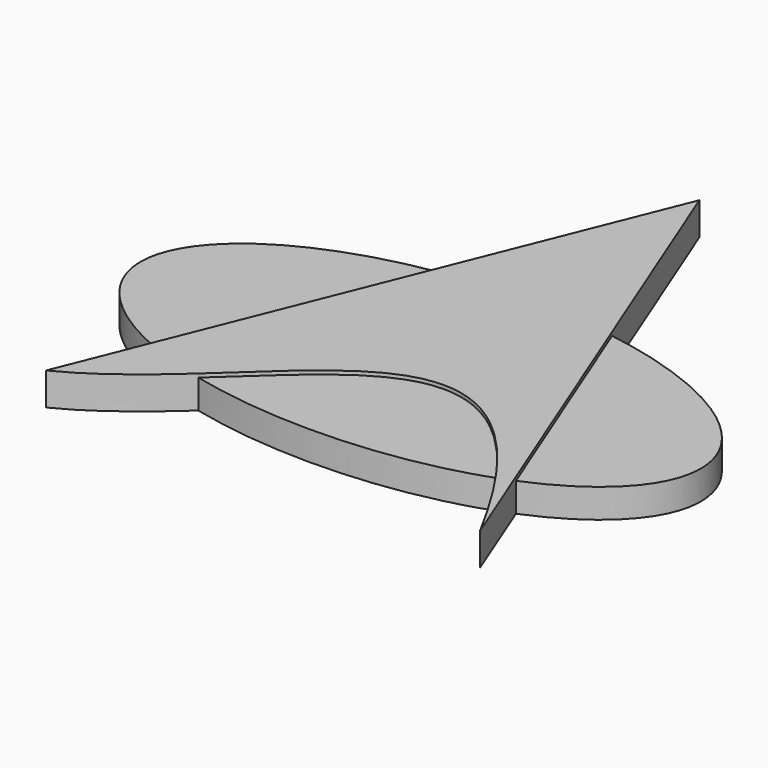
from build123d import *

# Parameters (mm, degrees)
F1_DEPTH = 2.286
F2_DEPTH = 0.254
F3_W     = 12.7
F3_H     = 1.016
F4_DEPTH = 0.254


with BuildPart() as f1:
    # F0 (on Top) → F1 (new body)
    with BuildSketch(Plane.XY):
        with BuildLine():
            Line((-13.1568801942, -7.1914618043), (-15.685681705, -13.4825458221))
            add(Edge.make_bspline(
                [(-15.685681705, -13.4825458221), (-13.2321975411, -12.2693498698), (-11.0318471059, -10.4379374373), (-8.9577929719, -8.5581073527)],
                knots=[0, 0, 0, 0, 6.5648699385, 6.5648699385, 6.5648699385, 6.5648699385], degree=3))
            add(Edge.make_bspline(
                [(-8.9577929719, -8.5581073527), (-2.326521087, -2.5478185256), (3.0136976356, 3.9574156183), (11.2083703228, -7.6654970922)],
                knots=[6.5648699385, 6.5648699385, 6.5648699385, 6.5648699385, 27.554407645, 27.554407645, 27.554407645, 27.554407645], degree=3))
            add(Edge.make_bspline(
                [(11.2083703228, -7.6654970922), (12.3264260334, -9.2512912326), (13.497617481, -11.1745413121), (14.7324733271, -13.4825458221)],
                knots=[27.554407645, 27.554407645, 27.554407645, 27.554407645, 30.4181550321, 30.4181550321, 30.4181550321, 30.4181550321], degree=3))
            Line((14.7324733271, -13.4825458221), (12.2638968299, -7.2552273315))
            Line((12.2638968299, -7.2552273315), (5.6394149783, 9.4559251776))
            Line((5.6394149783, 9.4559251776), (-0.3707793305, 24.6174541779))
            Line((-0.3707793305, 24.6174541779), (-6.4710147318, 9.441453502))
            Line((-6.4710147318, 9.441453502), (-13.1568801942, -7.1914618043))
        make_face()
        with BuildLine():
            add(Edge.make_bspline(
                [(-6.4710147318, 9.441453502), (-39.6247541981, 4.06906696), (-13.1568801942, -7.1914618043)],
                knots=[1.8867642182, 1.8867642182, 1.8867642182, 4.0030869743, 4.0030869743, 4.0030869743], degree=2, weights=[1, 0.4904751866, 1]))
            Line((-13.1568801942, -7.1914618043), (-6.4710147318, 9.441453502))
        make_face()
        with BuildLine():
            add(Edge.make_bspline(
                [(-8.9577929719, -8.5581073527), (-2.326521087, -2.5478185256), (3.0136976356, 3.9574156183), (11.2083703228, -7.6654970922)],
                knots=[6.5648699385, 6.5648699385, 6.5648699385, 6.5648699385, 27.554407645, 27.554407645, 27.554407645, 27.554407645], degree=3))
            add(Edge.make_bspline(
                [(-8.9577929719, -8.5581073527), (1.6671986102, -11.1197744869), (11.2083703228, -7.6654970922)],
                knots=[4.2596733084, 4.2596733084, 4.2596733084, 5.3432299115, 5.3432299115, 5.3432299115], degree=2, weights=[1, 0.8567930368, 1]))
        make_face()
        with BuildLine():
            add(Edge.make_bspline(
                [(12.2638968299, -7.2552273315), (39.4332818564, 4.06906696), (5.6394149783, 9.4559251776)],
                knots=[5.4115698154, 5.4115698154, 5.4115698154, 7.5428353935, 7.5428353935, 7.5428353935], degree=2, weights=[1, 0.4839505579, 1]))
            Line((5.6394149783, 9.4559251776), (12.2638968299, -7.2552273315))
        make_face()
    extrude(amount=-F1_DEPTH)

    # F0 (on Top) → F2 (cut)
    with BuildSketch(Plane.XY):
        with BuildLine():
            add(Edge.make_bspline(
                [(-6.4710147318, 9.441453502), (-39.6247541981, 4.06906696), (-13.1568801942, -7.1914618043)],
                knots=[1.8867642182, 1.8867642182, 1.8867642182, 4.0030869743, 4.0030869743, 4.0030869743], degree=2, weights=[1, 0.4904751866, 1]))
            Line((-13.1568801942, -7.1914618043), (-6.4710147318, 9.441453502))
        make_face()
        with BuildLine():
            add(Edge.make_bspline(
                [(12.2638968299, -7.2552273315), (39.4332818564, 4.06906696), (5.6394149783, 9.4559251776)],
                knots=[5.4115698154, 5.4115698154, 5.4115698154, 7.5428353935, 7.5428353935, 7.5428353935], degree=2, weights=[1, 0.4839505579, 1]))
            Line((5.6394149783, 9.4559251776), (12.2638968299, -7.2552273315))
        make_face()
        with BuildLine():
            add(Edge.make_bspline(
                [(-8.9577929719, -8.5581073527), (-2.326521087, -2.5478185256), (3.0136976356, 3.9574156183), (11.2083703228, -7.6654970922)],
                knots=[6.5648699385, 6.5648699385, 6.5648699385, 6.5648699385, 27.554407645, 27.554407645, 27.554407645, 27.554407645], degree=3))
            add(Edge.make_bspline(
                [(-8.9577929719, -8.5581073527), (1.6671986102, -11.1197744869), (11.2083703228, -7.6654970922)],
                knots=[4.2596733084, 4.2596733084, 4.2596733084, 5.3432299115, 5.3432299115, 5.3432299115], degree=2, weights=[1, 0.8567930368, 1]))
        make_face()
    extrude(amount=-F2_DEPTH, mode=Mode.SUBTRACT)

    # F3 (on face) → F4 (cut)
    with BuildSketch(Plane(origin=(0, 0, -2.286), x_dir=(1, 0, 0), z_dir=(0, 0, -1))):
        with Locations((0.1644820441, -1.469257871)):
            Rectangle(F3_W, F3_H)
    extrude(amount=-F4_DEPTH, mode=Mode.SUBTRACT)


solid = f1.part
